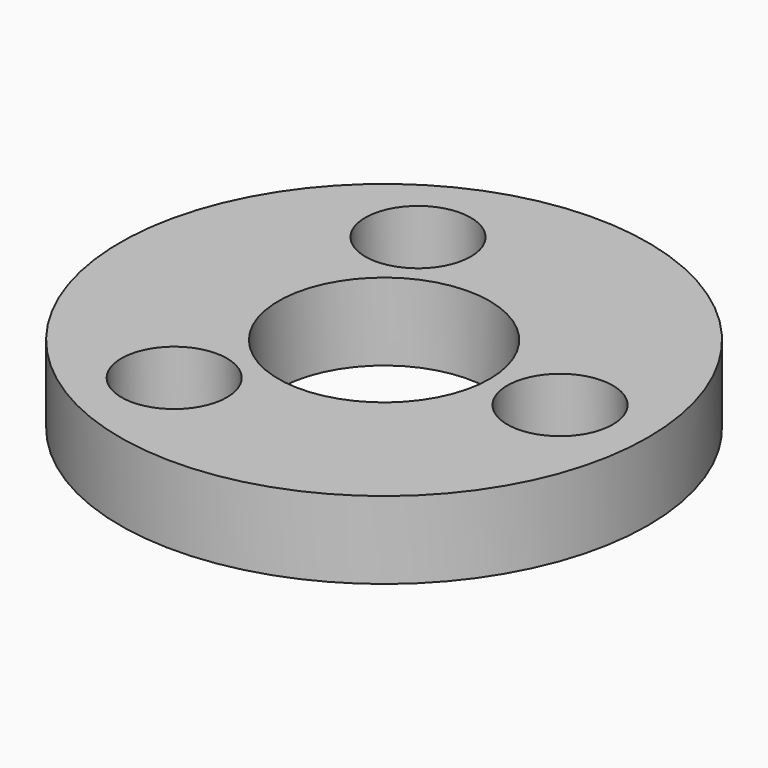
from build123d import *

# Parameters (mm, degrees)
SKETCH_1_R     = 37.5
PAD_1_DEPTH    = 11
SKETCH_2_R     = 15
POCKET_2_DEPTH = 11.001
SKETCH_3_R     = 4.5
POCKET_3_DEPTH = 11.001
SKETCH_4_R     = 4.5
POCKET_4_DEPTH = 11.001
SKETCH_5_R     = 4.5
POCKET_5_DEPTH = 11.001
SKETCH_6_R     = 7.5
POCKET_6_DEPTH = 9
SKETCH_7_R     = 7.5
POCKET_7_DEPTH = 9
SKETCH_8_R     = 7.5
POCKET_8_DEPTH = 9


with BuildPart() as part:
    # Sketch_1 → Pad_1 (new body)
    with BuildSketch(Plane.XY):
        Circle(SKETCH_1_R)
    extrude(amount=PAD_1_DEPTH)

    # Sketch_2 (on Face3 of Pad_1) → Pocket_2 (cut, through all)
    with BuildSketch(Plane.XY.offset(11)):
        Circle(SKETCH_2_R)
    extrude(amount=-POCKET_2_DEPTH, mode=Mode.SUBTRACT)

    # Sketch_3 (on Face3 of Pocket_2) → Pocket_3 (cut, through all)
    with BuildSketch(Plane.XY.offset(11)):
        with Locations((25, 0)):
            Circle(SKETCH_3_R)
    extrude(amount=-POCKET_3_DEPTH, mode=Mode.SUBTRACT)

    # Sketch_4 (on Face3 of Pocket_3) → Pocket_4 (cut, through all)
    with BuildSketch(Plane.XY.offset(11)):
        with Locations((-12.5, 21.65)):
            Circle(SKETCH_4_R)
    extrude(amount=-POCKET_4_DEPTH, mode=Mode.SUBTRACT)

    # Sketch_5 (on Face3 of Pocket_4) → Pocket_5 (cut, through all)
    with BuildSketch(Plane.XY.offset(11)):
        with Locations((-12.5, -21.65)):
            Circle(SKETCH_5_R)
    extrude(amount=-POCKET_5_DEPTH, mode=Mode.SUBTRACT)

    # Sketch_6 (on Face3 of Pocket_5) → Pocket_6 (cut)
    with BuildSketch(Plane.XY.offset(11)):
        with Locations((25, 0)):
            Circle(SKETCH_6_R)
    extrude(amount=-POCKET_6_DEPTH, mode=Mode.SUBTRACT)

    # Sketch_7 (on Face3 of Pocket_6) → Pocket_7 (cut)
    with BuildSketch(Plane.XY.offset(11)):
        with Locations((-12.5, 21.65)):
            Circle(SKETCH_7_R)
    extrude(amount=-POCKET_7_DEPTH, mode=Mode.SUBTRACT)

    # Sketch_8 (on Face3 of Pocket_7) → Pocket_8 (cut)
    with BuildSketch(Plane.XY.offset(11)):
        with Locations((-12.5, -21.65)):
            Circle(SKETCH_8_R)
    extrude(amount=-POCKET_8_DEPTH, mode=Mode.SUBTRACT)


solid = part.part
